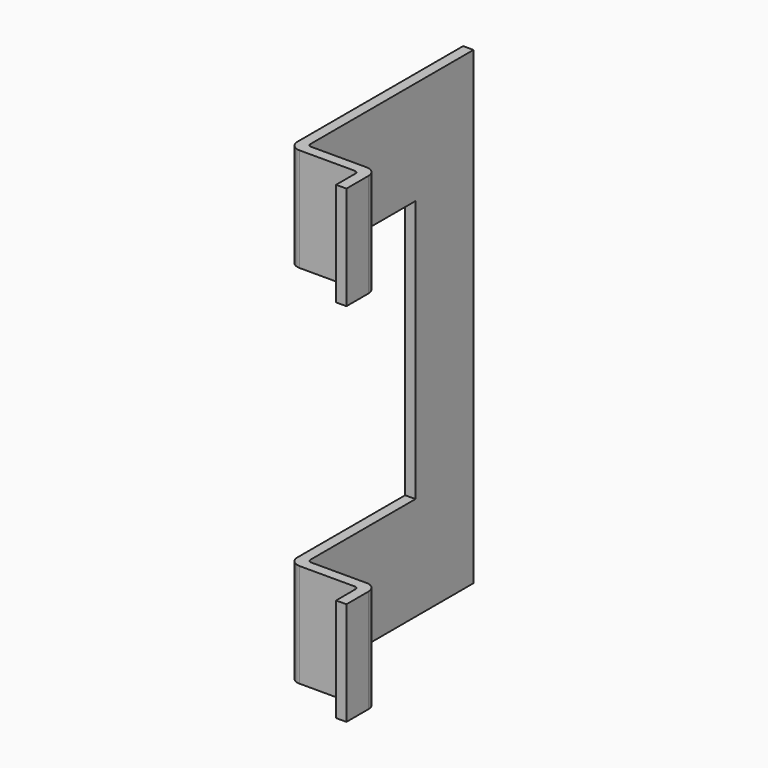
from build123d import *

# Parameters (mm, degrees)
F1_DEPTH = 34
F2_W     = 4
F2_H     = 38
F2_W_2   = 21
F3_DEPTH = 50
F4_R     = 1.5
F5_R     = 0.5


with BuildPart() as f1:
    # F0 (on Top) → F1 (new body, symmetric)
    with BuildSketch(Plane.XY):
        Polygon((-1.5, 4), (-1.5, 0), (0, 0), (0, 5.5), (-10, 5.5), (-10, 35.5), (-11.5, 35.5), (-11.5, 4), align=None)
    extrude(amount=F1_DEPTH, both=True)

    # F2 (on face) → F3 (cut)
    with BuildSketch(Plane(origin=(-11.5, 0, 0), x_dir=(0, -1, 0), z_dir=(-1, 0, 0))):
        with Locations((-2, 0)):
            Rectangle(F2_W, F2_H)
        with Locations((-14.5, 0)):
            Rectangle(F2_W_2, F2_H)
    extrude(amount=-F3_DEPTH, mode=Mode.SUBTRACT)

    # F4
    f4_edges = [f1.edges().sort_by_distance(p)[0] for p in [
        (0, 5.5, -26.5),
        (0, 5.5, 26.5),
        (-11.5, 4, -26.5),
        (-11.5, 4, 26.5),
    ]]
    fillet(f4_edges, radius=F4_R)

    # F5
    f5_edges = [f1.edges().sort_by_distance(p)[0] for p in [
        (-10, 5.5, -26.5),
        (-10, 5.5, 26.5),
        (-1.5, 4, -26.5),
        (-1.5, 4, 26.5),
    ]]
    fillet(f5_edges, radius=F5_R)


solid = f1.part
